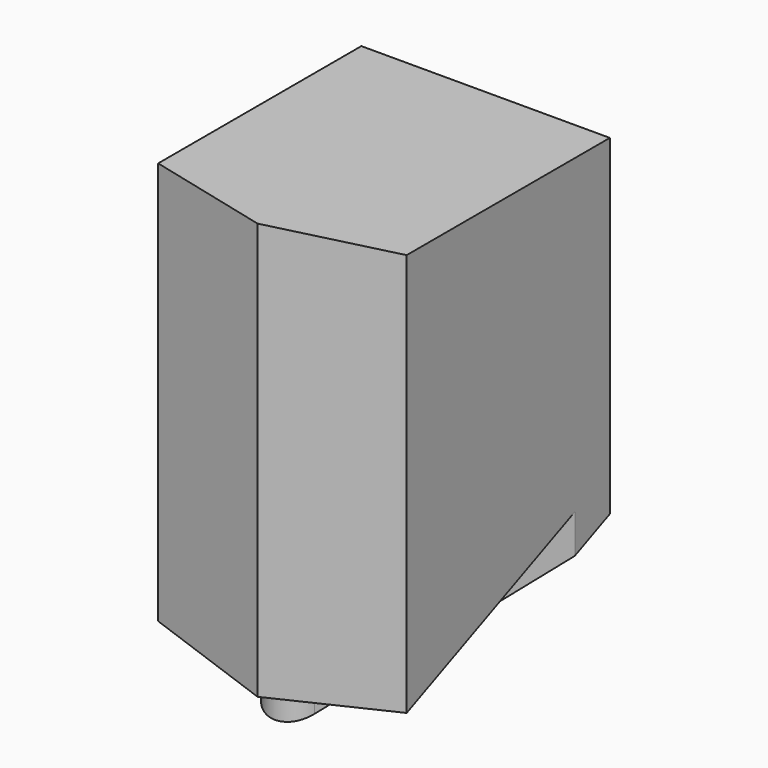
from build123d import *

# Parameters (mm, degrees)
PAD103_DEPTH    = 3
POCKET009_DEPTH = 5
PAD104_DEPTH    = 2
POCKET010_DEPTH = 5


with BuildPart() as part:
    # Sketch130 (on Face1 of Binder) → Pad103 (new body)
    with BuildSketch(Plane(origin=(0, 0, -5.1), x_dir=(1, 0, 0), z_dir=(0, 0, -1))):
        Polygon((11.85, -14.25), (10.15, -14.25), (10.15, -12.5125), (11, -12.3), (11.85, -12.5125), align=None)
    extrude(amount=PAD103_DEPTH)

    # Sketch131 (on Face2 of Pad103) → Pocket009 (cut)
    with BuildSketch(Plane(origin=(10.15, 0, 0), x_dir=(0, -1, 0), z_dir=(-1, 0, 0))):
        Polygon((-14.25, -7.1), (-14.25, -8.1), (-12.3, -8.1), (-12.3, -7.95), align=None)
    extrude(amount=-POCKET009_DEPTH, mode=Mode.SUBTRACT)

    # Sketch132 → Pad104 (join)
    with BuildSketch(Plane.XY.offset(-9)):
        with BuildLine():
            Line((11.85, 14.25), (11.5, 14.25))
            Line((11.5, 14.25), (11.180107, 13.587429))
            ThreePointArc((10.819893, 13.587429), (11, 13.474386), (11.180107, 13.587429))
            Line((10.819893, 13.587429), (10.5, 14.25))
            Line((10.5, 14.25), (10.15, 14.25))
            Line((10.15, 14.25), (10.15, 13.95))
            Line((10.15, 13.95), (10.819893, 12.5625))
            ThreePointArc((10.819893, 12.5625), (11, 12.449457), (11.180107, 12.5625))
            Line((11.85, 13.95), (11.180107, 12.5625))
            Line((11.85, 14.25), (11.85, 13.95))
        make_face()
    extrude(amount=PAD104_DEPTH)

    # Sketch133 (on Face14 of Pad104) → Pocket010 (cut)
    with BuildSketch(Plane(origin=(10.15, 0, 0), x_dir=(0, -1, 0), z_dir=(-1, 0, 0))):
        Polygon((-12.449457, -9), (-12.449457, -8.15), (-14.25, -7.365148), (-14.25, -9), align=None)
    extrude(amount=-POCKET010_DEPTH, mode=Mode.SUBTRACT)


solid = part.part
